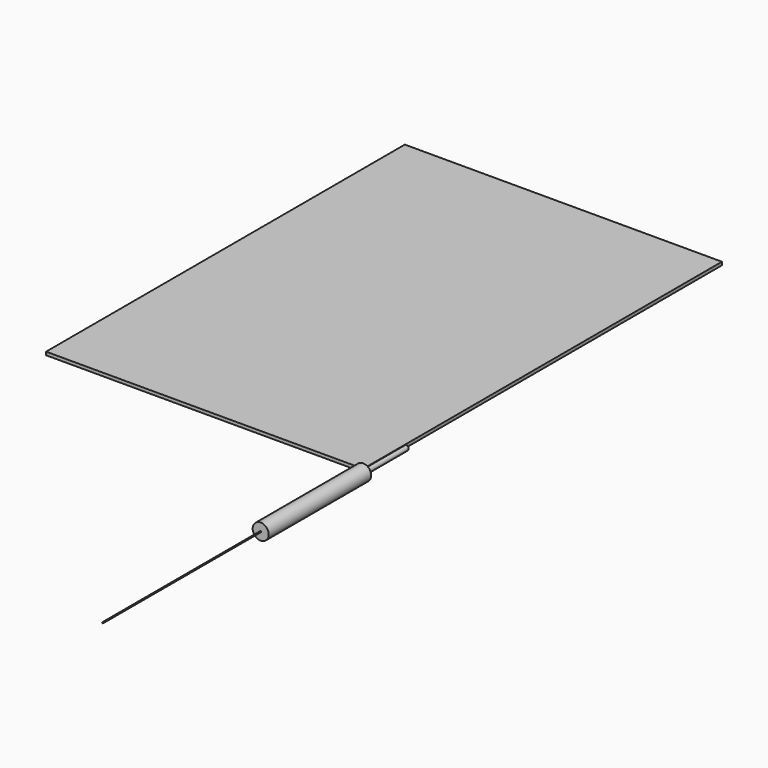
from build123d import *

# Parameters (mm, degrees)
F0_R     = 7.5
F1_DEPTH = 120
F3_R     = 0.5
F4_DEPTH = 185
F5_R     = 2.5
F6_DEPTH = 50
F7_W     = 297
F7_H     = 420
F8_DEPTH = 3


with BuildPart() as f1:
    # F0 (on Front) → F1 (new body)
    with BuildSketch(Plane.XZ):
        Circle(F0_R)
    extrude(amount=F1_DEPTH)


with BuildPart() as f4:
    # F3 (on face) → F4 (new body)
    with BuildSketch(Plane.XZ.offset(120)):
        Circle(F3_R)
    extrude(amount=F4_DEPTH)


with BuildPart() as f6:
    # F5 (on Front) → F6 (new body)
    with BuildSketch(Plane.XZ):
        Circle(F5_R)
    extrude(amount=-F6_DEPTH)


with BuildPart() as f8:
    # F7 (on Top) → F8 (new body)
    with BuildSketch(Plane.XY):
        with Locations((-148.5, 210)):
            Rectangle(F7_W, F7_H)
    extrude(amount=F8_DEPTH)


solid = Compound([f1.part, f4.part, f6.part, f8.part])
